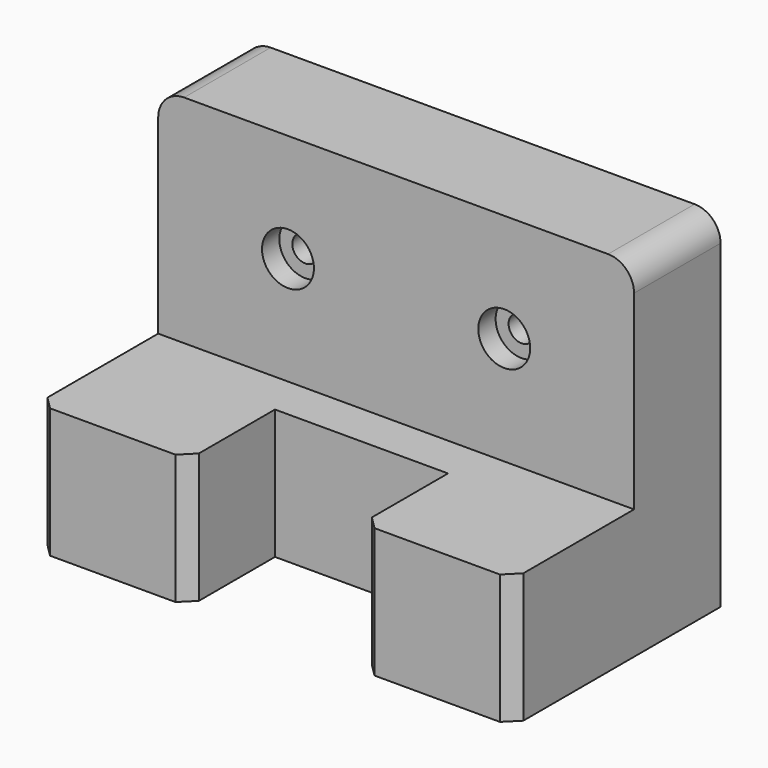
from build123d import *

# Parameters (mm, degrees)
F0_W      = 110
F0_H      = 80
F1_DEPTH  = 60
F2_W      = 110
F2_H      = 50
F3_DEPTH  = 35
F4_R      = 6
F5_R      = 6
F6_DEPTH  = 5
F7_R      = 3
F8_DEPTH  = 20.001
F9_W      = 40
F9_H      = 25
F10_DEPTH = 30.001
F11_SIZE2 = 3
F11_SIZE  = 3


with BuildPart() as f1:
    # F0 (on Front) → F1 (new body)
    with BuildSketch(Plane.XZ):
        Rectangle(F0_W, F0_H)
    extrude(amount=F1_DEPTH)

    # F2 (on face) → F3 (cut)
    with BuildSketch(Plane.XZ.offset(60)):
        with Locations((0, 15)):
            Rectangle(F2_W, F2_H)
    extrude(amount=-F3_DEPTH, mode=Mode.SUBTRACT)

    # F4
    f4_edges = [f1.edges().sort_by_distance(p)[0] for p in [
        (55, -12.5, 40),
        (-55, -12.5, 40),
    ]]
    fillet(f4_edges, radius=F4_R)

    # F5 (on face) → F6 (cut)
    with BuildSketch(Plane.XZ.offset(25)):
        with Locations((-25, 15)):
            Circle(F5_R)
        with Locations((25, 15)):
            Circle(F5_R)
    extrude(amount=-F6_DEPTH, mode=Mode.SUBTRACT)

    # F7 (on face) → F8 (cut, through all)
    with BuildSketch(Plane.XZ.offset(20)):
        with Locations((-25, 15)):
            Circle(F7_R)
        with Locations((25, 15)):
            Circle(F7_R)
    extrude(amount=-F8_DEPTH, mode=Mode.SUBTRACT)

    # F9 (on face) → F10 (cut, through all)
    with BuildSketch(Plane.XY.offset(-10)):
        with Locations((0, -47.5)):
            Rectangle(F9_W, F9_H)
    extrude(amount=-F10_DEPTH, mode=Mode.SUBTRACT)

    # F11
    f11_edges = [f1.edges().sort_by_distance(p)[0] for p in [
        (-55, -60, -25),
        (55, -60, -25),
        (-20, -60, -25),
        (20, -60, -25),
    ]]
    chamfer(f11_edges, length=F11_SIZE, length2=F11_SIZE2)


solid = f1.part
